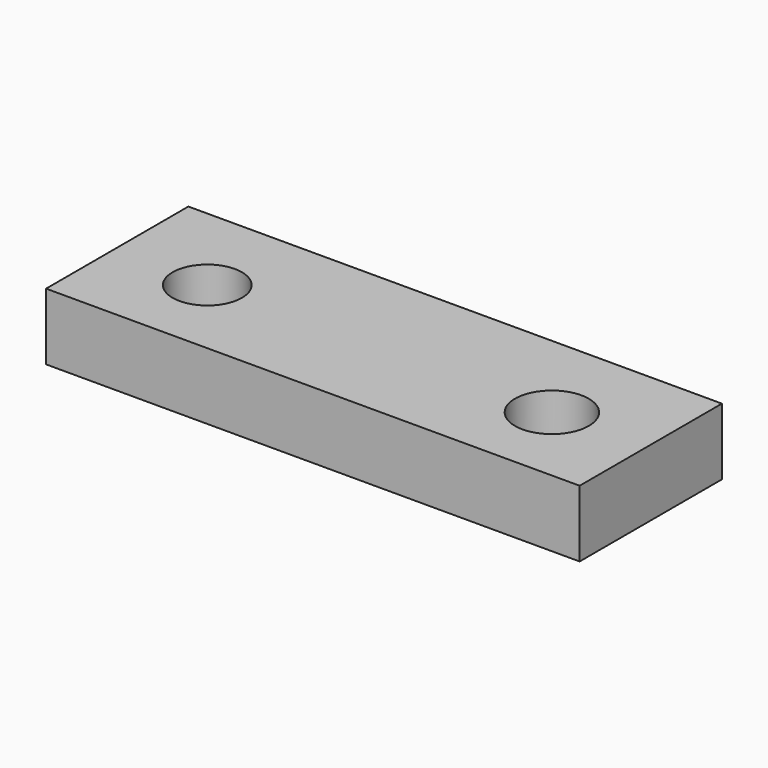
from build123d import *

# Parameters (mm, degrees)
F0_R     = 6.731
F1_DEPTH = 19.05
F2_R     = 9.906
F2_R_2   = 6.731
F3_DEPTH = 13.208
F4_R     = 10.541
F4_R_2   = 6.731
F5_DEPTH = 13.462


with BuildPart() as f1:
    # F0 (on Top) → F1 (new body)
    with BuildSketch(Plane.XY):
        Polygon((22.225, -25.4), (76.2, -25.4), (76.2, 25.4), (-76.2, 25.4), (-76.2, -25.4), align=None)
        with Locations((-49.2125, -1.5748)):
            Circle(F0_R, mode=Mode.SUBTRACT)
        with Locations((49.2125, -1.5748)):
            Circle(F0_R, mode=Mode.SUBTRACT)
    extrude(amount=F1_DEPTH)

    # F2 (on face) → F3 (cut)
    with BuildSketch(Plane.XY.offset(19.05)):
        with Locations((-49.2125, -1.5748)):
            Circle(F2_R)
        with Locations((-49.2125, -1.5748)):
            Circle(F2_R_2, mode=Mode.SUBTRACT)
    extrude(amount=-F3_DEPTH, mode=Mode.SUBTRACT)

    # F4 (on face) → F5 (cut)
    with BuildSketch(Plane.XY.offset(19.05)):
        with Locations((49.2125, -1.5748)):
            Circle(F4_R)
        with Locations((49.2125, -1.5748)):
            Circle(F4_R_2, mode=Mode.SUBTRACT)
    extrude(amount=-F5_DEPTH, mode=Mode.SUBTRACT)


solid = f1.part
